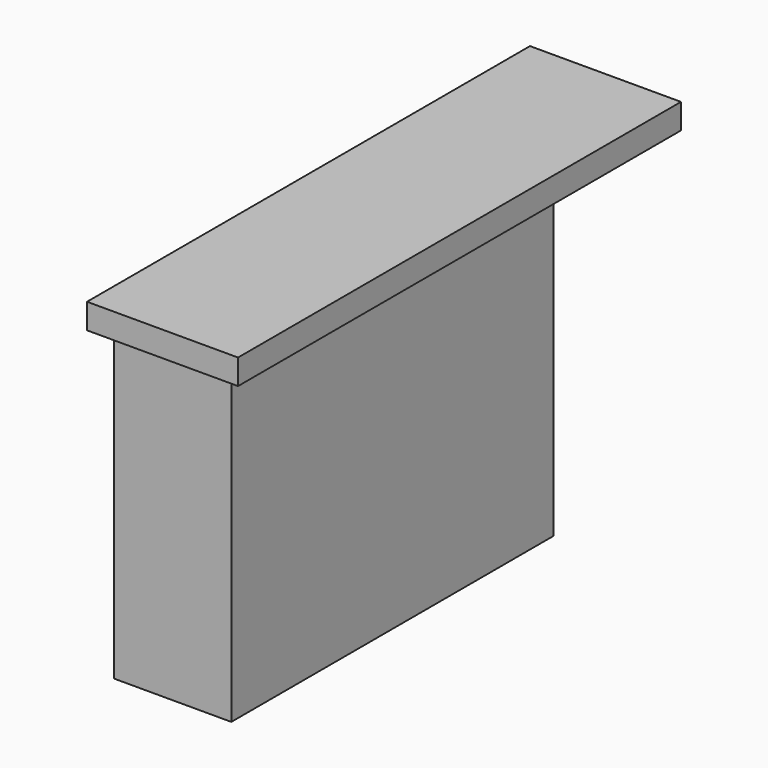
from build123d import *

# Parameters (mm, degrees)
F0_W     = 457.2
F0_H     = 76.2
F1_DEPTH = 1676.4
F3_T     = -38.1
F4_W     = 355.6
F4_H     = 1219.2
F5_DEPTH = 927.1


with BuildPart() as f1:
    # F0 (on Front) → F1 (new body)
    with BuildSketch(Plane.XZ):
        Rectangle(F0_W, F0_H)
    extrude(amount=F1_DEPTH)

    # F3
    f3_openings = [f1.faces().sort_by_distance(p)[0] for p in [
        (0, -838.2, -38.1),
    ]]
    offset(amount=F3_T, openings=f3_openings)


with BuildPart() as f5:
    # F4 (on face) → F5 (new body)
    with BuildSketch(Plane(origin=(0, 0, -38.1), x_dir=(1, 0, 0), z_dir=(0, 0, -1))):
        with Locations((0, 1028.7)):
            Rectangle(F4_W, F4_H)
    extrude(amount=F5_DEPTH)


solid = Compound([f1.part, f5.part])
